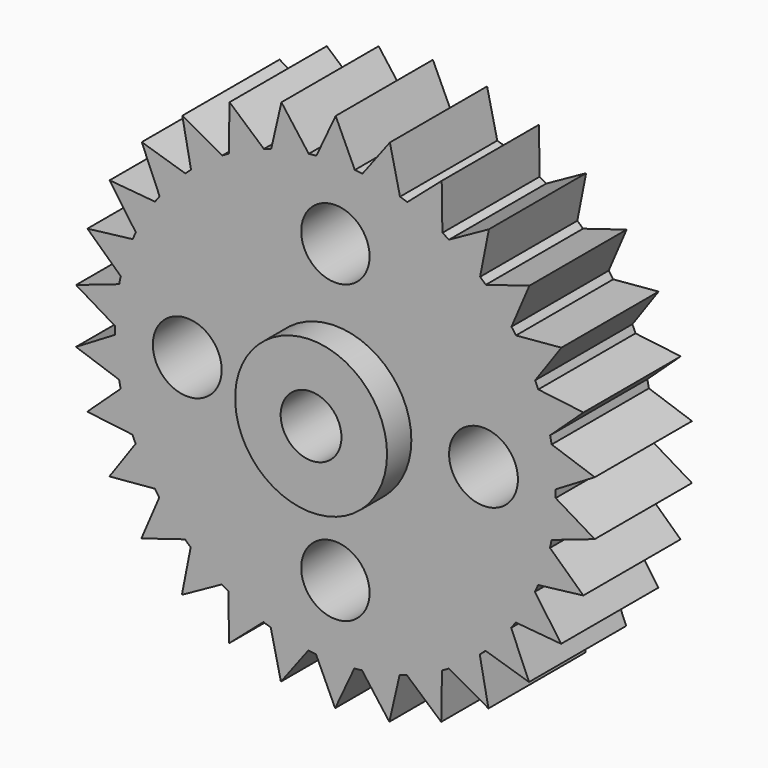
from build123d import *

# Parameters (mm, degrees)
F0_R      = 11.509375
F1_DEPTH  = 3.175
F2_R      = 3.96875
F3_DEPTH  = 1.5875
F4_R      = 1.5875
F5_DEPTH  = 7.9385
F6_R      = 1.7859375
F6_R_2    = 1.7983109728
F7_DEPTH  = 6.351
F9_DEPTH  = 6.35
F10_COUNT = 30


with BuildPart() as f1:
    # F0 (on Front) → F1 (new body, symmetric)
    with BuildSketch(Plane.XZ):
        Circle(F0_R)
    extrude(amount=F1_DEPTH, both=True)

    # F2 (on face) → F3 (join)
    with BuildSketch(Plane.XZ.offset(3.175)):
        Circle(F2_R)
    extrude(amount=F3_DEPTH)

    # F4 (on face) → F5 (cut, through all)
    with BuildSketch(Plane.XZ.offset(4.7625)):
        Circle(F4_R)
    extrude(amount=-F5_DEPTH, mode=Mode.SUBTRACT)

    # F6 (on face) → F7 (cut, through all)
    with BuildSketch(Plane.XZ.offset(3.175)):
        with Locations((0, 7.7390625)):
            Circle(F6_R)
        with Locations((0, -7.7390625)):
            Circle(F6_R)
        with Locations((-7.7390625, 0)):
            Circle(F6_R_2)
        with Locations((7.7390625, 0)):
            Circle(F6_R_2)
    extrude(amount=-F7_DEPTH, mode=Mode.SUBTRACT)



with BuildPart() as f9:
    # F8 (on face) → F9 (new body, through all)
    with BuildSketch(Plane.XZ.offset(3.175)):
        with BuildLine():
            Line((0.0141249861, 13.6252297198), (-0.9912214727, 11.4666120926))
            ThreePointArc((-0.9912214727, 11.4666120926), (0.011931518, 11.5093688154), (1.0149937027, 11.464532292))
            Line((1.0149937027, 11.464532292), (0.0141249861, 13.6252297198))
        make_face()
    extrude(amount=-F9_DEPTH)


with BuildPart() as f10_1:
    # F10: instance of F9
    add(f9.part.rotate(Axis((0, -3.175, 0), (0, -1, 0)), 1 * 360 / F10_COUNT))


with BuildPart() as f10_2:
    # F10: instance of F9
    add(f9.part.rotate(Axis((0, -3.175, 0), (0, -1, 0)), 2 * 360 / F10_COUNT))


with BuildPart() as f10_3:
    # F10: instance of F9
    add(f9.part.rotate(Axis((0, -3.175, 0), (0, -1, 0)), 3 * 360 / F10_COUNT))


with BuildPart() as f10_4:
    # F10: instance of F9
    add(f9.part.rotate(Axis((0, -3.175, 0), (0, -1, 0)), 4 * 360 / F10_COUNT))


with BuildPart() as f10_5:
    # F10: instance of F9
    add(f9.part.rotate(Axis((0, -3.175, 0), (0, -1, 0)), 5 * 360 / F10_COUNT))


with BuildPart() as f10_6:
    # F10: instance of F9
    add(f9.part.rotate(Axis((0, -3.175, 0), (0, -1, 0)), 6 * 360 / F10_COUNT))


with BuildPart() as f10_7:
    # F10: instance of F9
    add(f9.part.rotate(Axis((0, -3.175, 0), (0, -1, 0)), 7 * 360 / F10_COUNT))


with BuildPart() as f10_8:
    # F10: instance of F9
    add(f9.part.rotate(Axis((0, -3.175, 0), (0, -1, 0)), 8 * 360 / F10_COUNT))


with BuildPart() as f10_9:
    # F10: instance of F9
    add(f9.part.rotate(Axis((0, -3.175, 0), (0, -1, 0)), 9 * 360 / F10_COUNT))


with BuildPart() as f10_10:
    # F10: instance of F9
    add(f9.part.rotate(Axis((0, -3.175, 0), (0, -1, 0)), 10 * 360 / F10_COUNT))


with BuildPart() as f10_11:
    # F10: instance of F9
    add(f9.part.rotate(Axis((0, -3.175, 0), (0, -1, 0)), 11 * 360 / F10_COUNT))


with BuildPart() as f10_12:
    # F10: instance of F9
    add(f9.part.rotate(Axis((0, -3.175, 0), (0, -1, 0)), 12 * 360 / F10_COUNT))


with BuildPart() as f10_13:
    # F10: instance of F9
    add(f9.part.rotate(Axis((0, -3.175, 0), (0, -1, 0)), 13 * 360 / F10_COUNT))


with BuildPart() as f10_14:
    # F10: instance of F9
    add(f9.part.rotate(Axis((0, -3.175, 0), (0, -1, 0)), 14 * 360 / F10_COUNT))


with BuildPart() as f10_15:
    # F10: instance of F9
    add(f9.part.rotate(Axis((0, -3.175, 0), (0, -1, 0)), 15 * 360 / F10_COUNT))


with BuildPart() as f10_16:
    # F10: instance of F9
    add(f9.part.rotate(Axis((0, -3.175, 0), (0, -1, 0)), 16 * 360 / F10_COUNT))


with BuildPart() as f10_17:
    # F10: instance of F9
    add(f9.part.rotate(Axis((0, -3.175, 0), (0, -1, 0)), 17 * 360 / F10_COUNT))


with BuildPart() as f10_18:
    # F10: instance of F9
    add(f9.part.rotate(Axis((0, -3.175, 0), (0, -1, 0)), 18 * 360 / F10_COUNT))


with BuildPart() as f10_19:
    # F10: instance of F9
    add(f9.part.rotate(Axis((0, -3.175, 0), (0, -1, 0)), 19 * 360 / F10_COUNT))


with BuildPart() as f10_20:
    # F10: instance of F9
    add(f9.part.rotate(Axis((0, -3.175, 0), (0, -1, 0)), 20 * 360 / F10_COUNT))


with BuildPart() as f10_21:
    # F10: instance of F9
    add(f9.part.rotate(Axis((0, -3.175, 0), (0, -1, 0)), 21 * 360 / F10_COUNT))


with BuildPart() as f10_22:
    # F10: instance of F9
    add(f9.part.rotate(Axis((0, -3.175, 0), (0, -1, 0)), 22 * 360 / F10_COUNT))


with BuildPart() as f10_23:
    # F10: instance of F9
    add(f9.part.rotate(Axis((0, -3.175, 0), (0, -1, 0)), 23 * 360 / F10_COUNT))


with BuildPart() as f10_24:
    # F10: instance of F9
    add(f9.part.rotate(Axis((0, -3.175, 0), (0, -1, 0)), 24 * 360 / F10_COUNT))


with BuildPart() as f10_25:
    # F10: instance of F9
    add(f9.part.rotate(Axis((0, -3.175, 0), (0, -1, 0)), 25 * 360 / F10_COUNT))


with BuildPart() as f10_26:
    # F10: instance of F9
    add(f9.part.rotate(Axis((0, -3.175, 0), (0, -1, 0)), 26 * 360 / F10_COUNT))


with BuildPart() as f10_27:
    # F10: instance of F9
    add(f9.part.rotate(Axis((0, -3.175, 0), (0, -1, 0)), 27 * 360 / F10_COUNT))


with BuildPart() as f10_28:
    # F10: instance of F9
    add(f9.part.rotate(Axis((0, -3.175, 0), (0, -1, 0)), 28 * 360 / F10_COUNT))


with BuildPart() as f10_29:
    # F10: instance of F9
    add(f9.part.rotate(Axis((0, -3.175, 0), (0, -1, 0)), 29 * 360 / F10_COUNT))


with BuildPart() as f1_1:
    add(f1.part)

    add(f9.part)  # F11 merges F9

    add(f10_1.part)  # F11 merges F10_1

    add(f10_2.part)  # F11 merges F10_2

    add(f10_3.part)  # F11 merges F10_3

    add(f10_4.part)  # F11 merges F10_4

    add(f10_5.part)  # F11 merges F10_5

    add(f10_6.part)  # F11 merges F10_6

    add(f10_7.part)  # F11 merges F10_7

    add(f10_8.part)  # F11 merges F10_8

    add(f10_9.part)  # F11 merges F10_9

    add(f10_10.part)  # F11 merges F10_10

    add(f10_11.part)  # F11 merges F10_11

    add(f10_12.part)  # F11 merges F10_12

    add(f10_13.part)  # F11 merges F10_13

    add(f10_14.part)  # F11 merges F10_14

    add(f10_15.part)  # F11 merges F10_15

    add(f10_16.part)  # F11 merges F10_16

    add(f10_17.part)  # F11 merges F10_17

    add(f10_18.part)  # F11 merges F10_18

    add(f10_19.part)  # F11 merges F10_19

    add(f10_20.part)  # F11 merges F10_20

    add(f10_21.part)  # F11 merges F10_21

    add(f10_22.part)  # F11 merges F10_22

    add(f10_23.part)  # F11 merges F10_23

    add(f10_24.part)  # F11 merges F10_24

    add(f10_25.part)  # F11 merges F10_25

    add(f10_26.part)  # F11 merges F10_26

    add(f10_27.part)  # F11 merges F10_27

    add(f10_28.part)  # F11 merges F10_28

    add(f10_29.part)  # F11 merges F10_29
    # F11: F1 across plane
    add(f1.part.mirror(Plane.XZ))


solid = f1_1.part
